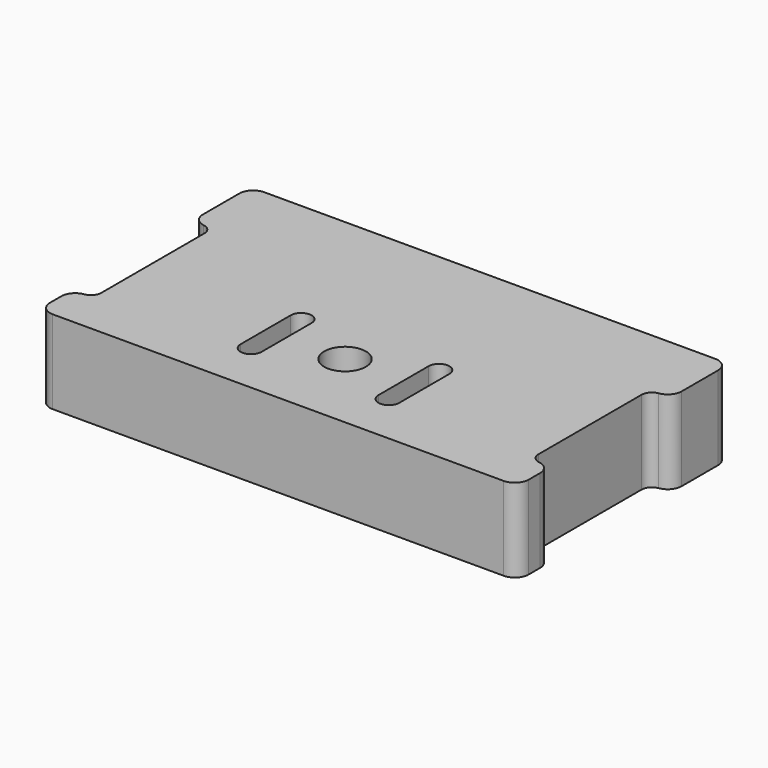
from build123d import *

# Parameters (mm, degrees)
F0_R     = 1.5
F1_DEPTH = 6
F2_R     = 1
F3_R     = 1


with BuildPart() as f1:
    # F0 (on Top) → F1 (new body)
    with BuildSketch(Plane.XY):
        with BuildLine():
            Line((17.2, 11), (-17.2, 11))
            Line((-17.2, 11), (-17.2, 5.0637826232))
            ThreePointArc((-17.2, 5.0637826232), (-16.4207968358, 5.7493204245), (-15.7027170703, 5))
            Line((-15.7027170703, 5), (-15.7027170703, -4.25))
            ThreePointArc((-15.7027170703, -4.25), (-16.4207968358, -4.9993204245), (-17.2, -4.3137826232))
            Line((-17.2, -4.3137826232), (-17.2, -8))
            Line((-17.2, -8), (17.2, -8))
            Line((17.2, -8), (17.2, -4.25))
            ThreePointArc((17.2, -4.25), (16.45, -5), (15.7, -4.25))
            Line((15.7, -4.25), (15.7, 5))
            ThreePointArc((15.7, 5), (16.45, 5.75), (17.2, 5))
            Line((17.2, 5), (17.2, 11))
        make_face()
        with BuildLine():
            Line((-5.7027170703, -4.25), (-5.7027170703, 0.25))
            ThreePointArc((-5.7027170703, 0.25), (-4.9527170703, 1), (-4.2027170703, 0.25))
            Line((-4.2027170703, 0.25), (-4.2027170703, -4.25))
            ThreePointArc((-4.2027170703, -4.25), (-4.9527170703, -5), (-5.7027170703, -4.25))
        make_face(mode=Mode.SUBTRACT)
        with Locations((0, -2)):
            Circle(F0_R, mode=Mode.SUBTRACT)
        with BuildLine():
            Line((4.2, -4.25), (4.2, 0.25))
            ThreePointArc((4.2, 0.25), (4.95, 1), (5.7, 0.25))
            Line((5.7, 0.25), (5.7, -4.25))
            ThreePointArc((5.7, -4.25), (4.95, -5), (4.2, -4.25))
        make_face(mode=Mode.SUBTRACT)
    extrude(amount=F1_DEPTH)

    # F2
    f2_edges = [f1.edges().sort_by_distance(p)[0] for p in [
        (17.2, 11, 3),
        (17.2, -8, 3),
        (-17.2, -8, 3),
        (-17.2, 11, 3),
    ]]
    fillet(f2_edges, radius=F2_R)

    # F3
    f3_edges = [f1.edges().sort_by_distance(p)[0] for p in [
        (17.2, 5, 3),
        (17.2, -4.25, 3),
        (-17.2, 5.063783, 3),
        (-17.2, -4.313783, 3),
    ]]
    fillet(f3_edges, radius=F3_R)


solid = f1.part
